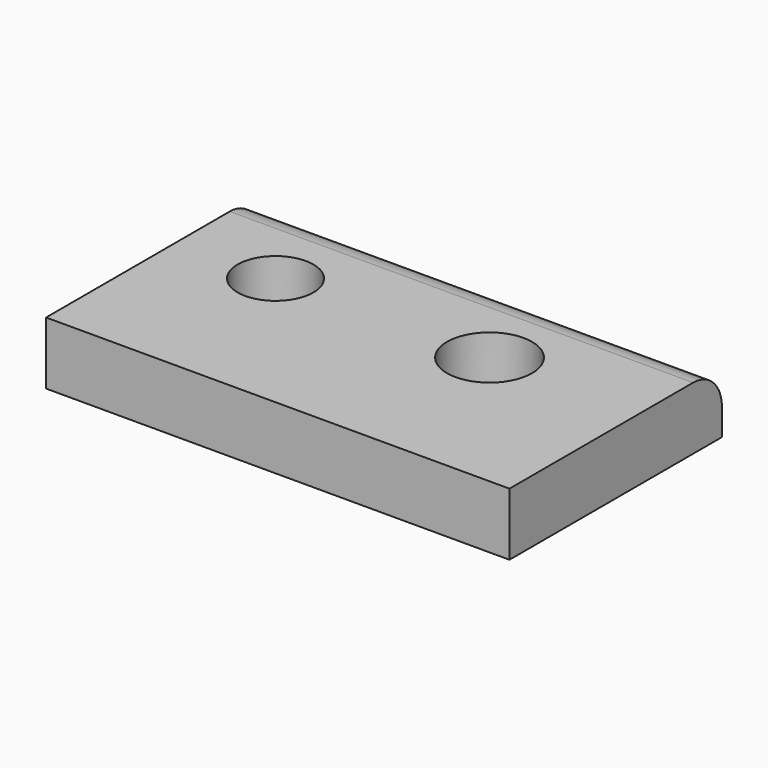
from build123d import *

# Parameters (mm, degrees)
F0_W     = 118.431672
F0_H     = 67.875417
F0_R     = 9.691151
F0_R_2   = 10.865315
F1_DEPTH = 16.002
F2_R     = 9.198154


with BuildPart() as f1:
    # F0 (on Top) → F1 (new body)
    with BuildSketch(Plane.XY):
        with Locations((-2.099518, -7.835525)):
            Rectangle(F0_W, F0_H)
        with Locations((-36.096402, 0)):
            Circle(F0_R, mode=Mode.SUBTRACT)
        with Locations((18.598331, 0)):
            Circle(F0_R_2, mode=Mode.SUBTRACT)
    extrude(amount=F1_DEPTH)

    # F2
    f2_edges = [f1.edges().sort_by_distance(p)[0] for p in [
        (-2.099518, 26.102183, 16.002),
    ]]
    fillet(f2_edges, radius=F2_R)


solid = f1.part
